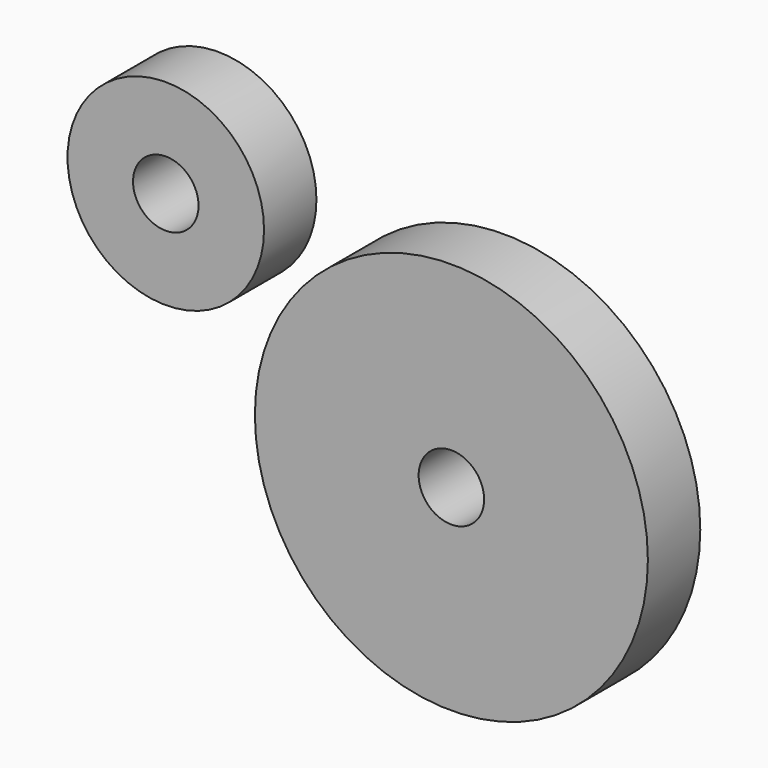
from build123d import *

# Parameters (mm, degrees)
F0_R     = 19.05
F0_R_2   = 6.35
F0_R_3   = 38.1
F1_DEPTH = 12.7


with BuildPart() as f1:
    # F0 (on Front) → F1 (new body)
    with BuildSketch(Plane.XZ):
        with Locations((-55.37371, 32.139193)):
            Circle(F0_R)
        with Locations((-55.37371, 32.139193)):
            Circle(F0_R_2, mode=Mode.SUBTRACT)
        Circle(F0_R_3)
        Circle(F0_R_2, mode=Mode.SUBTRACT)
    extrude(amount=F1_DEPTH)


solid = f1.part
